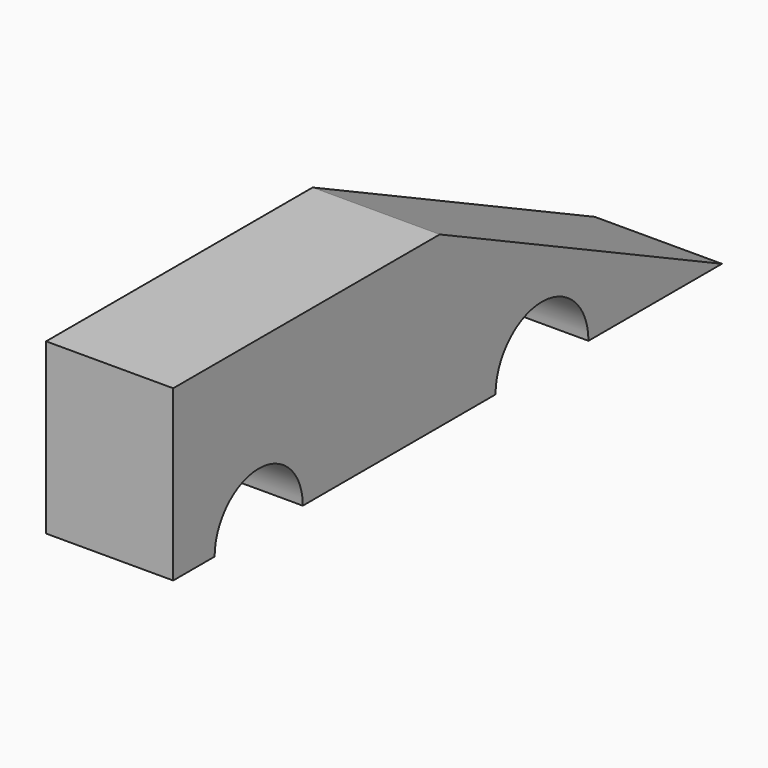
from build123d import *

# Parameters (mm, degrees)
F1_DEPTH = 25.4


with BuildPart() as f1:
    # F0 (on Right) → F1 (new body)
    with BuildSketch(Plane.YZ):
        with BuildLine():
            Line((0, 11.630322), (-66.565119, 11.630322))
            Line((-66.565119, 11.630322), (-66.565119, -22.185242))
            Line((-66.565119, -22.185242), (-56.224159, -22.185242))
            ThreePointArc((-56.224159, -22.185242), (-45.207921, -11.169004), (-34.191684, -22.185242))
            Line((-34.191684, -22.185242), (13.935136, -22.185242))
            ThreePointArc((13.935136, -22.185242), (25.537794, -10.582583), (37.140453, -22.185242))
            Line((37.140453, -22.185242), (70.476905, -22.185242))
            Line((70.476905, -22.185242), (0, 11.630322))
        make_face()
    extrude(amount=F1_DEPTH)


solid = f1.part
